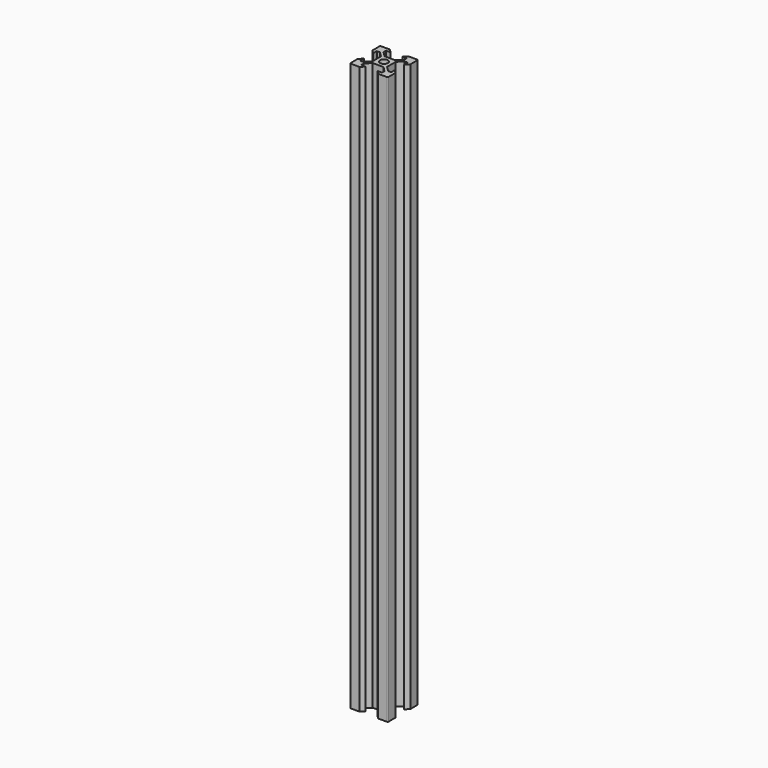
from build123d import *

# Parameters (mm, degrees)
SKETCH_R  = 2.1
PAD_DEPTH = 300
FILLET_R  = 0.4


with BuildPart() as part:
    # Sketch → Pad (new body)
    with BuildSketch(Plane.XY):
        Polygon((-2.84, 3.90066), (2.84, 3.90066), (5.49934, 6.56), (5.49934, 8.2), (3.1, 8.2), (4.9, 10), (10, 10), (10, 4.9), (8.2, 3.1), (8.2, 5.49934), (6.56, 5.49934), (3.90066, 2.84), (3.90066, -2.84), (6.56, -5.49934), (8.2, -5.49934), (8.2, -3.1), (10, -4.9), (10, -10), (4.9, -10), (3.1, -8.2), (5.49934, -8.2), (5.49934, -6.56), (2.84, -3.90066), (-2.84, -3.90066), (-5.49934, -6.56), (-5.49934, -8.2), (-3.1, -8.2), (-4.9, -10), (-10, -10), (-10, -4.9), (-8.2, -3.1), (-8.2, -5.49934), (-6.56, -5.49934), (-3.90066, -2.84), (-3.90066, 2.84), (-6.56, 5.49934), (-8.2, 5.49934), (-8.2, 3.1), (-10, 4.9), (-10, 10), (-4.9, 10), (-3.1, 8.2), (-5.49934, 8.2), (-5.49934, 6.56), align=None)
        Circle(SKETCH_R, mode=Mode.SUBTRACT)
    extrude(amount=PAD_DEPTH)

    # Fillet
    fillet_edges = [part.edges().sort_by_distance(p)[0] for p in [
        (10, 10, 150),
        (-10, 10, 150),
        (10, -10, 150),
        (-10, -10, 150),
    ]]
    fillet(fillet_edges, radius=FILLET_R)


solid = part.part
